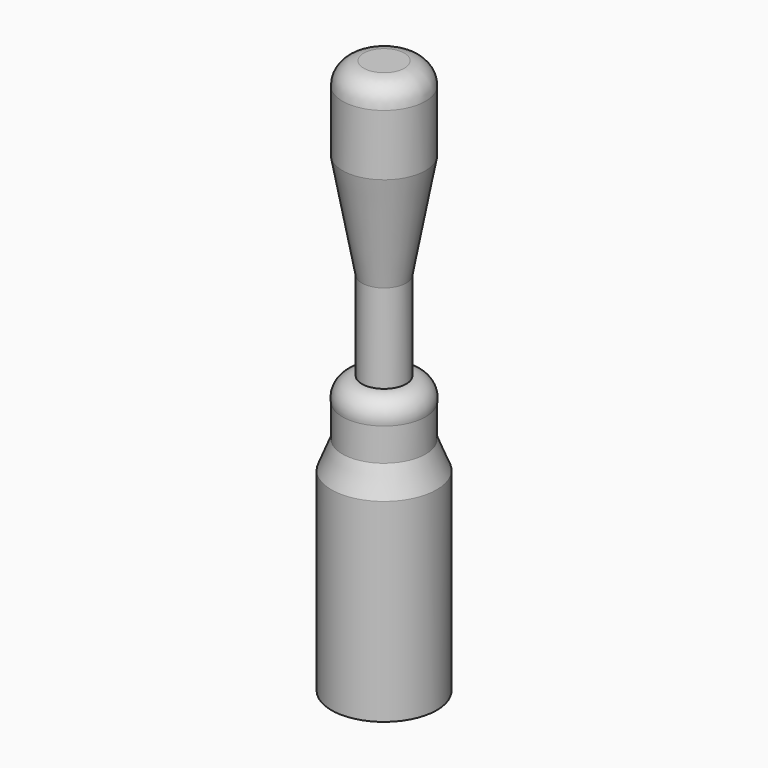
from build123d import *


with BuildPart() as f1:
    # F0 (on Front) → F1 (revolve)
    with BuildSketch(Plane.XZ):
        with BuildLine():
            Line((3.672682, 0), (0, 0))
            Line((0, 0), (0, -100))
            Line((0, -100), (9.5, -100))
            Line((9.5, -100), (9.5, -65))
            Line((9.5, -65), (7.5, -60))
            Line((7.5, -60), (7.5, -54.091204))
            ThreePointArc((7.5, -54.091204), (6.709919, -51.224397), (4, -50))
            Line((4, -50), (4, -34))
            Line((4, -34), (7.5, -15))
            Line((7.5, -15), (7.5, -3.996271))
            ThreePointArc((7.5, -3.996271), (6.388834, -1.22957), (3.672682, 0))
        make_face()
    revolve(axis=Axis((0, 0, -50), (0, 0, 1)))


solid = f1.part
